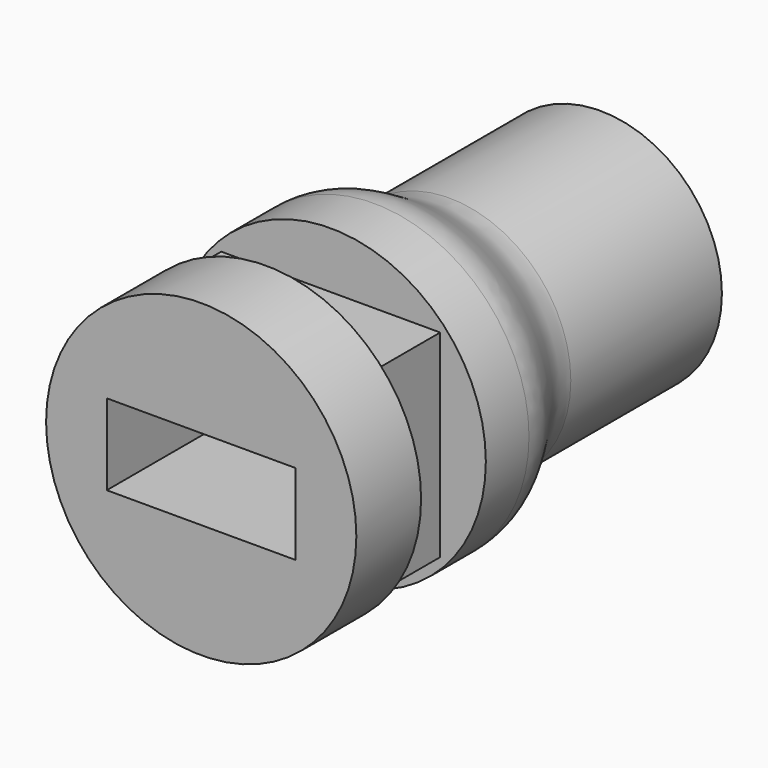
from build123d import *

# Parameters (mm, degrees)
F0_W     = 5.75
F0_H     = 3
F2_W     = 8.114334
F2_H     = 7.330208
F3_DEPTH = 3
F4_W     = 7
F4_H     = 3
F5_DEPTH = 18.501


with BuildPart() as f1:
    # F0 (on Top) → F1 (revolve)
    with BuildSketch(Plane.XY):
        with BuildLine():
            Line((4.5, 18.5), (0, 18.5))
            Line((0, 18.5), (0, 6))
            Line((0, 6), (5.75, 6))
            Line((5.75, 6), (5.75, 8))
            add(Edge.make_bspline(
                [(5.75, 8), (5.75, 9.5), (4.5, 10), (4.5, 11.5)],
                knots=[0, 0, 0, 0, 3.716517, 3.716517, 3.716517, 3.716517], degree=3))
            Line((4.5, 11.5), (4.5, 18.5))
        make_face()
        with Locations((2.875, 1.5)):
            Rectangle(F0_W, F0_H)
    revolve(axis=Axis((0, 7.539056, 0), (0, -1, 0)))

    # F2 (on face) → F3 (join, through all)
    with BuildSketch(Plane(origin=(0, 3, 0), x_dir=(-1, 0, 0), z_dir=(0, 1, 0))):
        Rectangle(F2_W, F2_H)
    extrude(amount=F3_DEPTH)

    # F4 (on face) → F5 (cut, through all)
    with BuildSketch(Plane(origin=(0, 18.5, 0), x_dir=(-1, 0, 0), z_dir=(0, 1, 0))):
        Rectangle(F4_W, F4_H)
    extrude(amount=-F5_DEPTH, mode=Mode.SUBTRACT)


solid = f1.part
